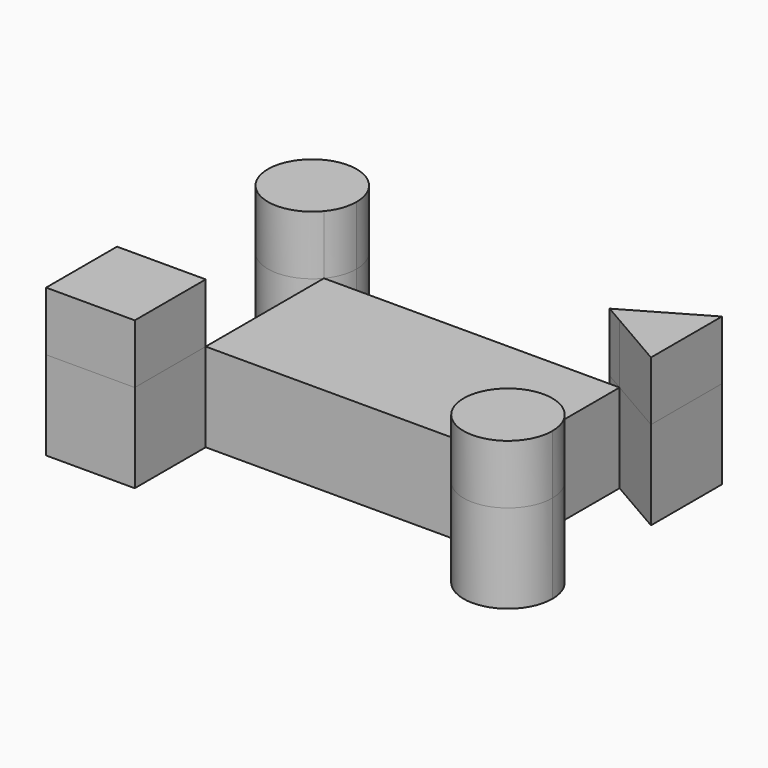
from build123d import *

# Parameters (mm, degrees)
F1_DEPTH = 30
F0_W     = 30
F0_H     = 30
F0_W_2   = 100
F0_H_2   = 50
F2_DEPTH = 20


with BuildPart() as f1:
    # F0 (on Top) → F1 (new body)
    with BuildSketch(Plane.XY):
        Polygon((32.46210035, 31.1833690802), (38.6980388133, 27.5830483298), (58.4428624636, 16.1833690802), (58.4428624636, 46.1833690802), align=None)
    extrude(amount=F1_DEPTH)


with BuildPart() as f1b:
    # F0 (on Top) → F1, piece 2 (new body)
    with BuildSketch(Plane.XY):
        with BuildLine():
            ThreePointArc((64.3769583364, -32.9507391096), (55.0697699069, -19.072990862), (38.6980388133, -22.4169516702))
            ThreePointArc((38.6980388133, -22.4169516702), (43.684146766, -46.8284873572), (64.3769583364, -32.9507391096))
        make_face()
    extrude(amount=F1_DEPTH)


with BuildPart() as f1c:
    # F0 (on Top) → F1, piece 3 (new body)
    with BuildSketch(Plane.XY):
        with Locations((-76.3019611867, -37.4169516702)):
            Rectangle(F0_W, F0_H)
    extrude(amount=F1_DEPTH)


with BuildPart() as f1d:
    # F0 (on Top) → F1, piece 4 (new body)
    with BuildSketch(Plane.XY):
        with Locations((-11.3019611867, 2.5830483298)):
            Rectangle(F0_W_2, F0_H_2)
    extrude(amount=F1_DEPTH)


with BuildPart() as f1e:
    # F0 (on Top) → F1, piece 5 (new body)
    with BuildSketch(Plane.XY):
        with BuildLine():
            ThreePointArc((-57.8788017667, 37.1212222738), (-86.9970985602, 42.1881439873), (-61.3019611867, 27.5830483298))
            ThreePointArc((-61.3019611867, 27.5830483298), (-58.7605049732, 32.0543005604), (-57.8788017667, 37.1212222738))
        make_face()
    extrude(amount=F1_DEPTH)


with BuildPart() as f2:
    # F2 (new): a face of the model
    f2_faces = [f1.part.faces().sort_by_distance(p)[0] for p in [
        (49.7826084257, 31.1833690802, 30),
    ]]
    extrude(f2_faces, amount=F2_DEPTH)


with BuildPart() as f2b:
    # F2#2 (new): a face of the model
    f2_2_faces = [f1b.part.faces().sort_by_distance(p)[0] for p in [
        (49.3769583364, -32.9507391096, 30),
    ]]
    extrude(f2_2_faces, amount=F2_DEPTH)


with BuildPart() as f2c:
    # F2#3 (new): a face of the model
    f2_3_faces = [f1c.part.faces().sort_by_distance(p)[0] for p in [
        (-76.3019611867, -37.4169516702, 30),
    ]]
    extrude(f2_3_faces, amount=F2_DEPTH)


with BuildPart() as f2d:
    # F2#4 (new): a face of the model
    f2_4_faces = [f1e.part.faces().sort_by_distance(p)[0] for p in [
        (-72.8788017667, 37.1212222738, 30),
    ]]
    extrude(f2_4_faces, amount=F2_DEPTH)


solid = Compound([f1.part, f1b.part, f1c.part, f1d.part, f1e.part, f2.part, f2b.part, f2c.part, f2d.part])
